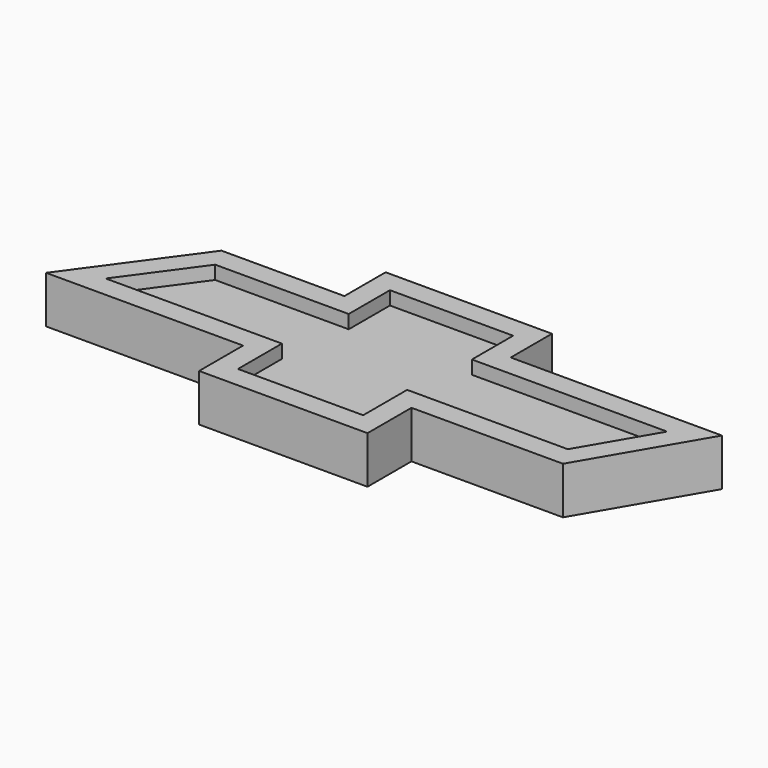
from build123d import *

# Parameters (mm, degrees)
F1_DEPTH = 6.35
F3_DEPTH = 2.54


with BuildPart() as f1:
    # F0 (on Top) → F1 (new body)
    with BuildSketch(Plane.XY):
        Polygon((-19.068402, 7.360227), (-42.225117, 7.360227), (-57.954384, -14.267517), (-20.852379, -14.267517), (-20.852379, -24.618464), (10.865408, -24.618464), (10.865408, -14.267517), (39.400437, -14.267517), (52.040033, 7.360227), (12.264185, 7.360227), (12.264185, 17.065071), (-19.068402, 17.065071), align=None)
    extrude(amount=F1_DEPTH)

    # F2 (on face) → F3 (join)
    with BuildSketch(Plane.XY.offset(6.35)):
        Polygon((-19.068402, 7.360227), (-42.225117, 7.360227), (-57.954384, -14.267517), (-20.852379, -14.267517), (-20.852379, -24.618464), (10.865408, -24.618464), (10.865408, -14.267517), (39.400437, -14.267517), (52.040033, 7.360227), (12.264185, 7.360227), (12.264185, 17.065071), (-19.068402, 17.065071), align=None)
        Polygon((-15.004402, 3.296227), (-15.004402, 13.001071), (8.200185, 13.001071), (8.200185, 3.296227), (44.957841, 3.296227), (37.068377, -10.203517), (6.801408, -10.203517), (6.801408, -20.554464), (-16.788379, -20.554464), (-16.788379, -10.203517), (-49.973623, -10.203517), (-40.155628, 3.296227), align=None, mode=Mode.SUBTRACT)
    extrude(amount=F3_DEPTH)


solid = f1.part
